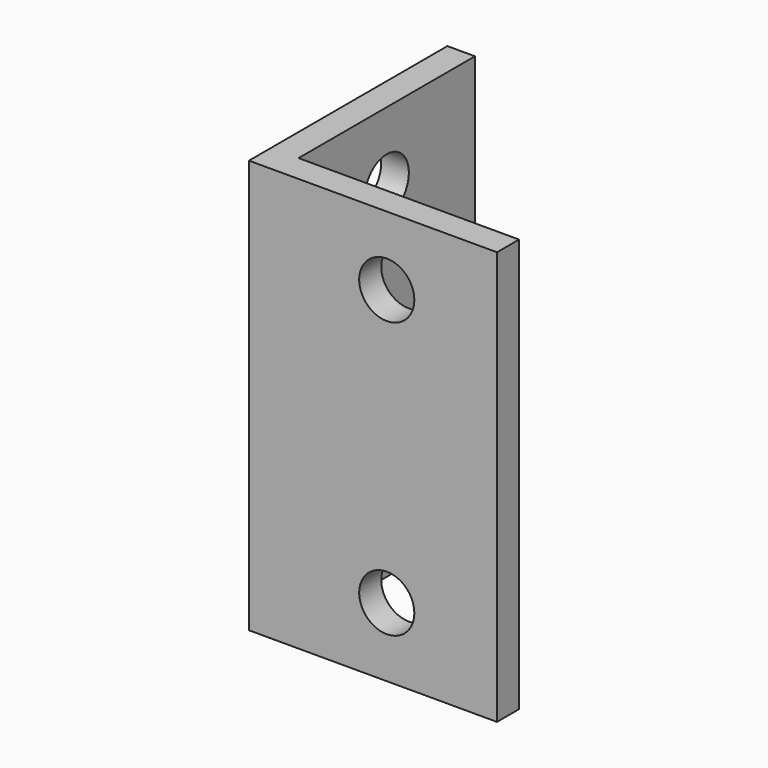
from build123d import *

# Parameters (mm, degrees)
F1_DEPTH = 15
F2_R     = 1
F3_DEPTH = 1
F4_R     = 1
F5_DEPTH = 1


with BuildPart() as f1:
    # F0 (on Top) → F1 (new body)
    with BuildSketch(Plane.XY):
        Polygon((0, 9), (0, 0), (9, 0), (9, 1), (1, 1), (1, 9), align=None)
    extrude(amount=F1_DEPTH)

    # F2 (on face) → F3 (cut, through all)
    with BuildSketch(Plane.XZ):
        with Locations((5, 12.5)):
            Circle(F2_R)
        with Locations((5, 2.5)):
            Circle(F2_R)
    extrude(amount=-F3_DEPTH, mode=Mode.SUBTRACT)

    # F4 (on face) → F5 (cut, through all)
    with BuildSketch(Plane(origin=(0, 0, 0), x_dir=(0, -1, 0), z_dir=(-1, 0, 0))):
        with Locations((-5, 12.5)):
            Circle(F4_R)
        with Locations((-5, 2.5)):
            Circle(F4_R)
    extrude(amount=-F5_DEPTH, mode=Mode.SUBTRACT)


solid = f1.part
